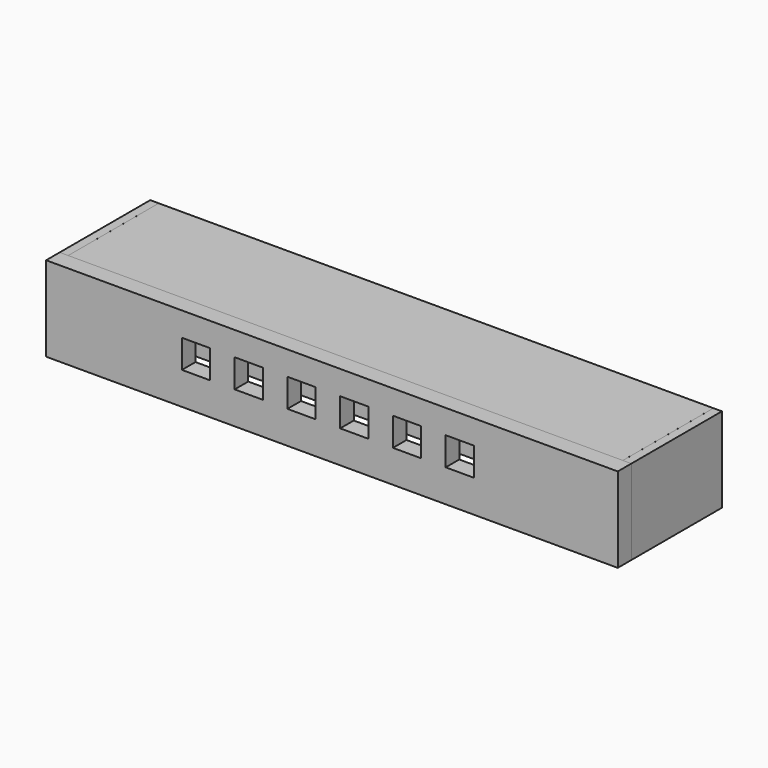
from build123d import *

# Parameters (mm, degrees)
PAD_DEPTH           = 6
SKETCH001_W         = 156
SKETCH001_H         = 8.81
POCKET_DEPTH        = 4
SKETCH015_W         = 10
SKETCH015_H         = 10
POCKET001_DEPTH     = 6.001
SKETCH016_W         = 3
SKETCH016_H         = 30
PAD001_DEPTH        = 40
LINEARPATTERN_COUNT = 2
LINEARPATTERN_PITCH = 199
SKETCH017_W         = 196
SKETCH017_H         = 3
PAD002_DEPTH        = 40
SKETCH018_W         = 195.94
SKETCH018_H         = 2
PAD003_DEPTH        = 20


with BuildPart() as part:
    # Sketch → Pad (new body)
    with BuildSketch(Plane.XZ):
        Polygon((-69.143125, 50.802246), (72.856875, 50.802246), (102.86, 50.802246), (102.86, 80.802246), (-99.143366, 80.802246), (-99.143366, 50.802246), align=None)
    extrude(amount=PAD_DEPTH)

    # Sketch001 → Pocket (cut)
    with BuildSketch(Plane(origin=(0, 0, 0), x_dir=(1, 0, 0), z_dir=(0, 1, 0))):
        with Locations((0, -55.095)):
            Rectangle(SKETCH001_W, SKETCH001_H)
    extrude(amount=-POCKET_DEPTH, mode=Mode.SUBTRACT)

    # Sketch015 → Pocket001 (cut, through all)
    with BuildSketch(Plane.XZ.offset(6)):
        with Locations((-46.15, 67.3)):
            Rectangle(SKETCH015_W, SKETCH015_H)
        with Locations((-27.51, 67.3)):
            Rectangle(SKETCH015_W, SKETCH015_H)
        with Locations((-8.87, 67.3)):
            Rectangle(SKETCH015_W, SKETCH015_H)
        with Locations((9.77, 67.3)):
            Rectangle(SKETCH015_W, SKETCH015_H)
        with Locations((28.41, 67.3)):
            Rectangle(SKETCH015_W, SKETCH015_H)
        with Locations((47.05, 67.3)):
            Rectangle(SKETCH015_W, SKETCH015_H)
    extrude(amount=-POCKET001_DEPTH, mode=Mode.SUBTRACT)

    # Sketch016 (on Face4 of Pocket001) → Pad001 (join)
    with BuildSketch(Plane(origin=(0, 0, 0), x_dir=(1, 0, 0), z_dir=(0, 1, 0))):
        with Locations((101.359965, -65.804146)):
            Rectangle(SKETCH016_W, SKETCH016_H)
    pad001 = extrude(amount=PAD001_DEPTH)

    # LinearPattern: Pad001 ×2
    with Locations(*[(-i * LINEARPATTERN_PITCH, 0, 0) for i in range(1, LINEARPATTERN_COUNT)]):
        add(pad001)

    # Sketch017 (on Face4 of LinearPattern) → Pad002 (join)
    with BuildSketch(Plane(origin=(0, 0, 0), x_dir=(1, 0, 0), z_dir=(0, 1, 0))):
        with Locations((1.848167, -79.3)):
            Rectangle(SKETCH017_W, SKETCH017_H)
    extrude(amount=PAD002_DEPTH)

    # Sketch018 (on Face21 of Pad002) → Pad003 (join)
    with BuildSketch(Plane(origin=(0, 0, 77.8), x_dir=(1, 0, 0), z_dir=(0, 0, -1))):
        with Locations((1.86, -10.45)):
            Rectangle(SKETCH018_W, SKETCH018_H)
    extrude(amount=PAD003_DEPTH)


solid = part.part
